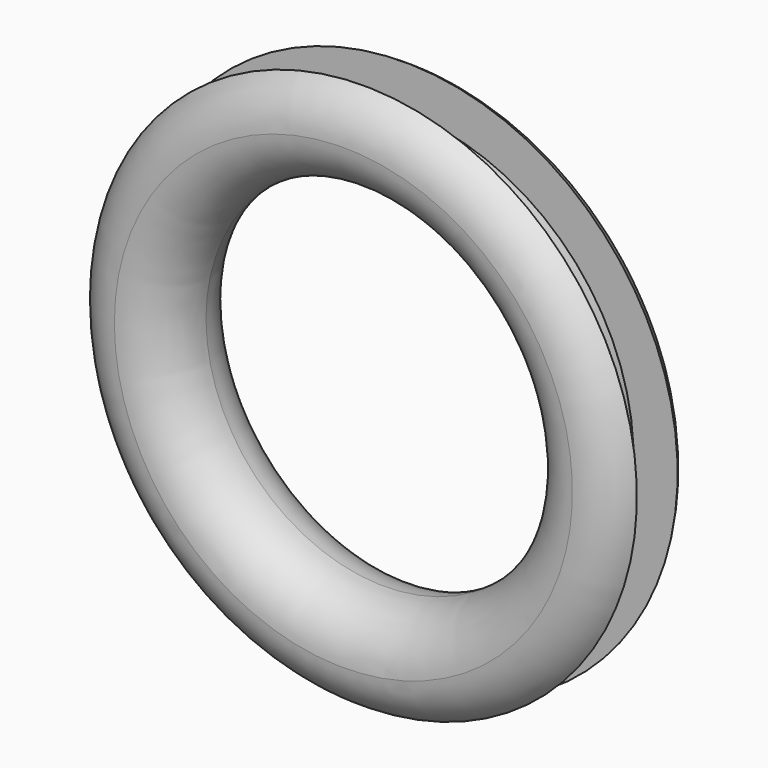
from build123d import *


with BuildPart() as f1:
    # F0 (on Top) → F1 (revolve)
    with BuildSketch(Plane.XY):
        with BuildLine():
            Line((0, 12.7), (0, 25.4))
            ThreePointArc((0, 25.4), (-12.7, 21.9970452561), (-21.9970452561, 12.7))
            Line((-21.9970452561, 12.7), (0, 12.7))
        make_face()
        with BuildLine():
            ThreePointArc((0, -25.4), (17.9605122421, -17.9605122421), (25.4, 0))
            ThreePointArc((25.4, 0), (17.9605122421, 17.9605122421), (0, 25.4))
            Line((0, 25.4), (0, 12.7))
            Line((0, 12.7), (0, 0))
            Line((0, 0), (0, -12.7))
            Line((0, -12.7), (0, -25.4))
        make_face()
        with BuildLine():
            ThreePointArc((-21.9970452561, -12.7), (-12.7, -21.9970452561), (0, -25.4))
            Line((0, -25.4), (0, -12.7))
            Line((0, -12.7), (-21.9970452561, -12.7))
        make_face()
    revolve(axis=Axis((114.3, 14.0205519274, 0), (0, 1, 0)))


solid = f1.part
